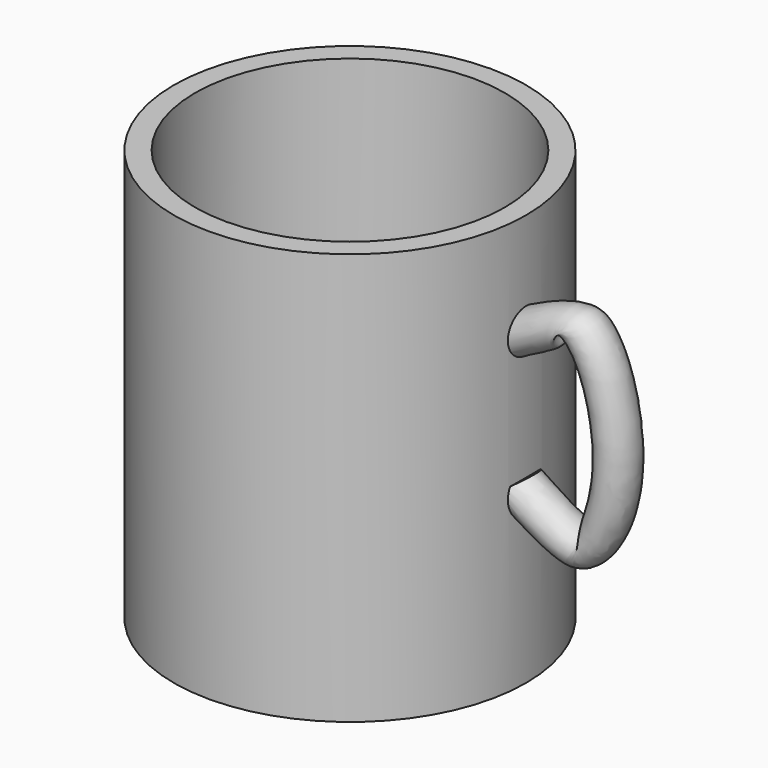
from build123d import *

# Parameters (mm, degrees)
F0_R     = 41.5
F1_DEPTH = 97
F2_T     = -5
F5_R     = 5


with BuildPart() as f1:
    # F0 (on Top) → F1 (new body)
    with BuildSketch(Plane.XY):
        Circle(F0_R)
    extrude(amount=F1_DEPTH)

    # F2
    f2_openings = [f1.faces().sort_by_distance(p)[0] for p in [
        (0, 0, 97),
    ]]
    offset(amount=F2_T, openings=f2_openings)

    # F6: sweep along a path in F3
    with BuildLine(Plane.XZ) as f6_path:
        add(Plane.XZ * Edge.make_bspline(
            [(31.4348563552, 73.6450105906), (49.764264375, 83.8280245662), (62.6187712539, 87.0881789148), (72.0960643276, 49.1462106595), (58.4043033065, 22.7360200692), (46.709369868, 29.8580732197), (34.4897508621, 38.0044803023)],
            knots=[0, 0, 0, 0, 0.2630123913, 0.5312643543, 0.7598078527, 1, 1, 1, 1], degree=3))
    # F5 (on offset) → F6 (sweep)
    with BuildSketch(Plane.YZ.offset(45)):
        with Locations((0, 74.7989192605)):
            Circle(F5_R)
    sweep(path=f6_path.line)


solid = f1.part
